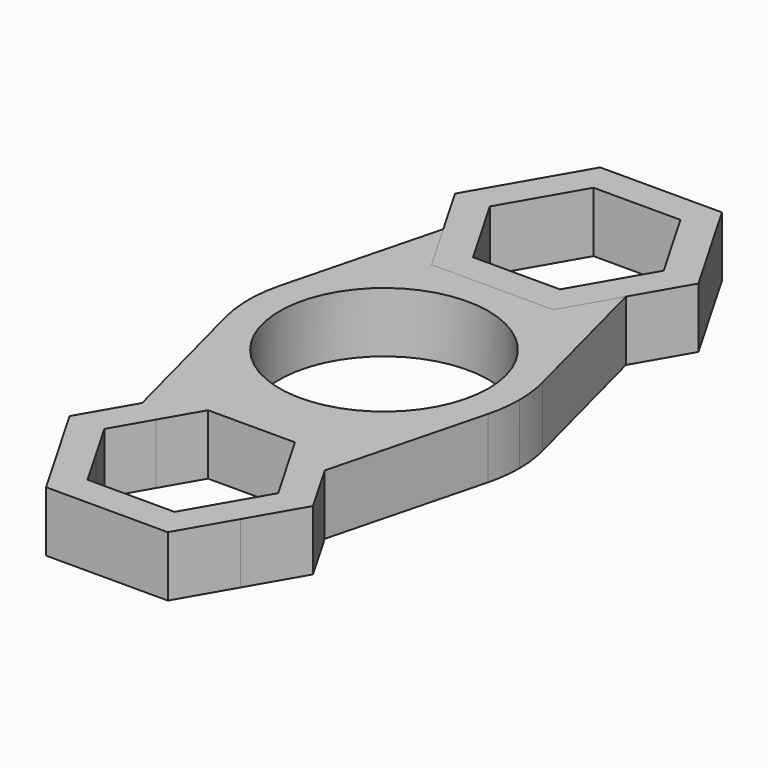
from build123d import *

# Parameters (mm, degrees)
F2_DEPTH = 6.35
F1_R     = 11.0236


with BuildPart() as f2:
    # F0 (on Top) → F2 (new body)
    with BuildSketch(Plane.XY):
        Polygon((-6.4158048664, 14.2875), (0, 14.2875), (6.4158048664, 14.2875), (12.8316097327, 25.4), (6.4158048664, 36.5125), (-6.4158048664, 36.5125), (-12.8316097327, 25.4), align=None)
        Polygon((9.1654355234, 25.4), (4.5827177617, 17.4625), (-4.5827177617, 17.4625), (-9.1654355234, 25.4), (-4.5827177617, 33.3375), (4.5827177617, 33.3375), align=None, mode=Mode.SUBTRACT)
    extrude(amount=F2_DEPTH)


with BuildPart() as f2b:
    # F1 (on Top) → F2, piece 2 (new body)
    with BuildSketch(Plane.XY):
        with BuildLine():
            ThreePointArc((-13.8320149289, 3.5788293136), (-8.7464316332, 11.2974594461), (-1.41e-08, 14.2875))
            Line((-1.41e-08, 14.2875), (-6.4158048664, 14.2875))
            Line((-6.4158048664, 14.2875), (-9.6237072996, 19.84375))
            Line((-9.6237072996, 19.84375), (-13.8320149289, 3.5788293136))
        make_face()
        with BuildLine():
            Line((9.6237072996, 19.84375), (6.4158048664, 14.2875))
            Line((6.4158048664, 14.2875), (-1.41e-08, 14.2875))
            ThreePointArc((-1.41e-08, 14.2875), (8.7464317138, 11.2974593837), (13.8320149871, 3.5788290888))
            Line((13.8320149871, 3.5788290888), (9.6237072996, 19.84375))
        make_face()
        with BuildLine():
            ThreePointArc((13.8320149871, 3.5788290888), (8.7464317138, 11.2974593837), (-1.41e-08, 14.2875))
            ThreePointArc((-1.41e-08, 14.2875), (-8.7464316332, 11.2974594461), (-13.8320149289, 3.5788293136))
            ThreePointArc((-13.8320149289, 3.5788293136), (-14.2875, -8.4e-08), (-13.8320148869, -3.5788294762))
            ThreePointArc((-13.8320148869, -3.5788294762), (-8.7464315679, -11.2974594966), (-1.71e-08, -14.2875))
            ThreePointArc((-1.71e-08, -14.2875), (8.746431646, -11.2974594362), (13.8320149449, -3.578829252))
            ThreePointArc((13.8320149449, -3.578829252), (14.1731713066, -1.8038490409), (14.2875, 0))
            ThreePointArc((14.2875, 0), (14.1731713173, 1.8038489574), (13.8320149871, 3.5788290888))
        make_face()
        Circle(F1_R, mode=Mode.SUBTRACT)
        with BuildLine():
            Line((9.6237072996, -19.84375), (13.8320149449, -3.578829252))
            ThreePointArc((13.8320149449, -3.578829252), (8.746431646, -11.2974594362), (-1.71e-08, -14.2875))
            Line((-1.71e-08, -14.2875), (6.4158048664, -14.2875))
            Line((6.4158048664, -14.2875), (9.6237072996, -19.84375))
        make_face()
        with BuildLine():
            ThreePointArc((-1.71e-08, -14.2875), (-8.7464315679, -11.2974594966), (-13.8320148869, -3.5788294762))
            Line((-13.8320148869, -3.5788294762), (-9.6237072996, -19.84375))
            Line((-9.6237072996, -19.84375), (-6.4158048664, -14.2875))
            Line((-6.4158048664, -14.2875), (-1.71e-08, -14.2875))
        make_face()
        with BuildLine():
            ThreePointArc((9.6237072996, -19.84375), (5.5562499926, -15.7762926962), (-1.71e-08, -14.2875))
            ThreePointArc((-1.71e-08, -14.2875), (-5.5562500074, -15.7762927047), (-9.6237072996, -19.84375))
            ThreePointArc((-9.6237072996, -19.84375), (-11.1125, -25.4000000591), (-9.6237072405, -30.9562501024))
            ThreePointArc((-9.6237072405, -30.9562501024), (-5.5562499488, -35.0237073291), (0, -36.5125))
            ThreePointArc((0, -36.5125), (5.5562498804, -35.0237073686), (9.6237071615, -30.9562502392))
            ThreePointArc((9.6237071615, -30.9562502392), (10.7338507089, -28.2761267721), (11.1125, -25.4))
            ThreePointArc((11.1125, -25.4), (10.7338507446, -22.5238733613), (9.6237072996, -19.84375))
        make_face()
        Polygon((0, -17.4625), (4.5827177617, -17.4625), (6.8740766576, -21.4312500262), (9.1654355234, -25.4), (6.8740766192, -29.3687500405), (4.5827177617, -33.3375), (0, -33.3375), (-4.5827177617, -33.3375), (-6.8740766269, -29.368750027), (-9.1654355234, -25.4), (-6.8740765947, -21.4312499171), (-4.5827177617, -17.4625), align=None, mode=Mode.SUBTRACT)
        with BuildLine():
            ThreePointArc((-9.6237072405, -30.9562501024), (-11.1125, -25.4000000591), (-9.6237072996, -19.84375))
            Line((-9.6237072996, -19.84375), (-12.8316097327, -25.4))
            Line((-12.8316097327, -25.4), (-9.6237072405, -30.9562501024))
        make_face()
        with BuildLine():
            ThreePointArc((0, -36.5125), (-5.5562499488, -35.0237073291), (-9.6237072405, -30.9562501024))
            Line((-9.6237072405, -30.9562501024), (-6.4158048664, -36.5125))
            Line((-6.4158048664, -36.5125), (0, -36.5125))
        make_face()
        with BuildLine():
            ThreePointArc((9.6237071615, -30.9562502392), (5.5562498804, -35.0237073686), (0, -36.5125))
            Line((0, -36.5125), (6.4158048664, -36.5125))
            Line((6.4158048664, -36.5125), (9.6237071615, -30.9562502392))
        make_face()
        with BuildLine():
            Line((12.8316097327, -25.4), (9.6237072996, -19.84375))
            ThreePointArc((9.6237072996, -19.84375), (10.7338507446, -22.5238733613), (11.1125, -25.4))
            ThreePointArc((11.1125, -25.4), (10.7338507089, -28.2761267721), (9.6237071615, -30.9562502392))
            Line((9.6237071615, -30.9562502392), (12.8316097327, -25.4))
        make_face()
        with BuildLine():
            Line((6.4158048664, -14.2875), (-1.71e-08, -14.2875))
            ThreePointArc((-1.71e-08, -14.2875), (5.5562499926, -15.7762926962), (9.6237072996, -19.84375))
            Line((9.6237072996, -19.84375), (6.4158048664, -14.2875))
        make_face()
        with BuildLine():
            ThreePointArc((-9.6237072996, -19.84375), (-5.5562500074, -15.7762927047), (-1.71e-08, -14.2875))
            Line((-1.71e-08, -14.2875), (-6.4158048664, -14.2875))
            Line((-6.4158048664, -14.2875), (-9.6237072996, -19.84375))
        make_face()
    extrude(amount=F2_DEPTH)


solid = Compound([f2.part, f2b.part])
